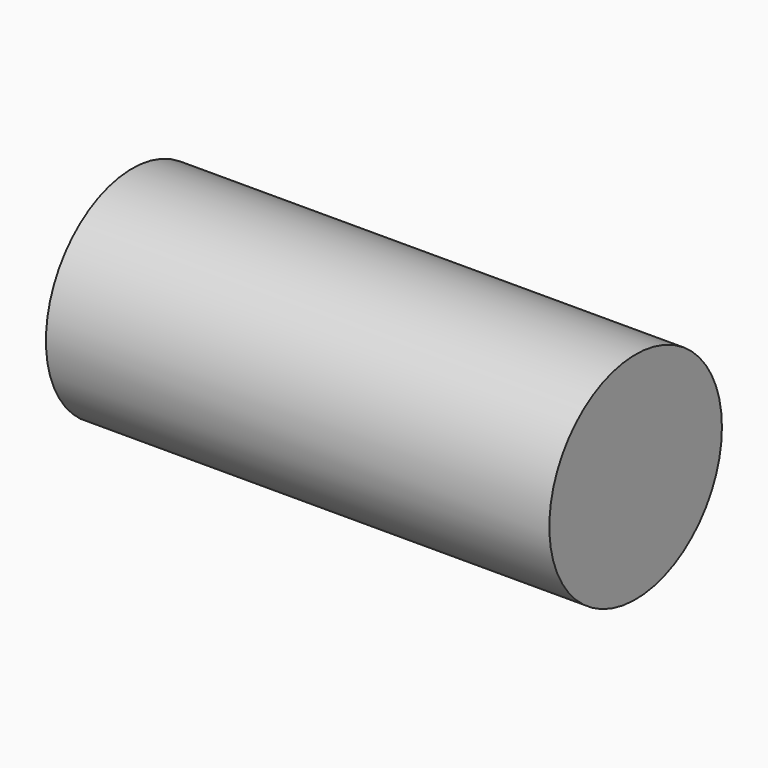
from build123d import *

# Parameters (mm, degrees)
F0_R     = 7.5
F1_DEPTH = 35
F3_D     = 2
F3_DEPTH = 12
F3_TIP   = 0.600860619


with BuildPart() as f1:
    # F0 (on Right) → F1 (new body)
    with BuildSketch(Plane.YZ):
        with Locations((0, 45)):
            Circle(F0_R)
    extrude(amount=F1_DEPTH)

    # F3
    with Locations(Plane(origin=(0, 0, 0), x_dir=(0, -1, 0), z_dir=(-1, 0, 0))):
        with Locations((0, 45)):
            Hole(F3_D / 2, depth=F3_DEPTH)
            with Locations((0, 0, -(F3_DEPTH + F3_TIP / 2))):  # 118° drill point
                Cone(0, F3_D / 2, F3_TIP, mode=Mode.SUBTRACT)


solid = f1.part
